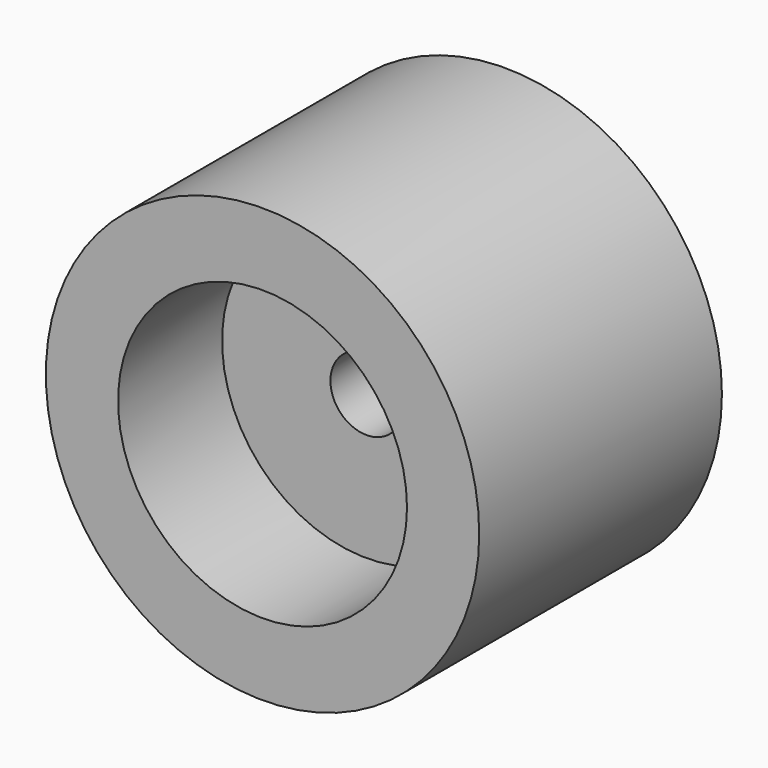
from build123d import *

# Parameters (mm, degrees)
F0_R          = 15
F1_DEPTH      = 12
F1_DEPTH_BACK = 9
F3_D          = 20
F4_R          = 13.574911
F5_DEPTH      = 3
F7_D          = 5


with BuildPart() as f1:
    # F0 (on Front) → F1 (new body, two sides)
    with BuildSketch(Plane.XZ) as f1_sk:
        Circle(F0_R)
    extrude(amount=F1_DEPTH)
    extrude(f1_sk.sketch, amount=-F1_DEPTH_BACK)

    # F3 (through all)
    with Locations(Plane(origin=(0, 9, 0), x_dir=(-1, 0, 0), z_dir=(0, 1, 0))):
        with Locations((0, 0)):
            Hole(F3_D / 2)

    # F4 (on Front) → F5 (join)
    with BuildSketch(Plane.XZ):
        Circle(F4_R)
    extrude(amount=F5_DEPTH)

    # F7 (through all)
    with Locations(Plane.XZ.offset(3)):
        with Locations((0, 0)):
            Hole(F7_D / 2)


solid = f1.part
